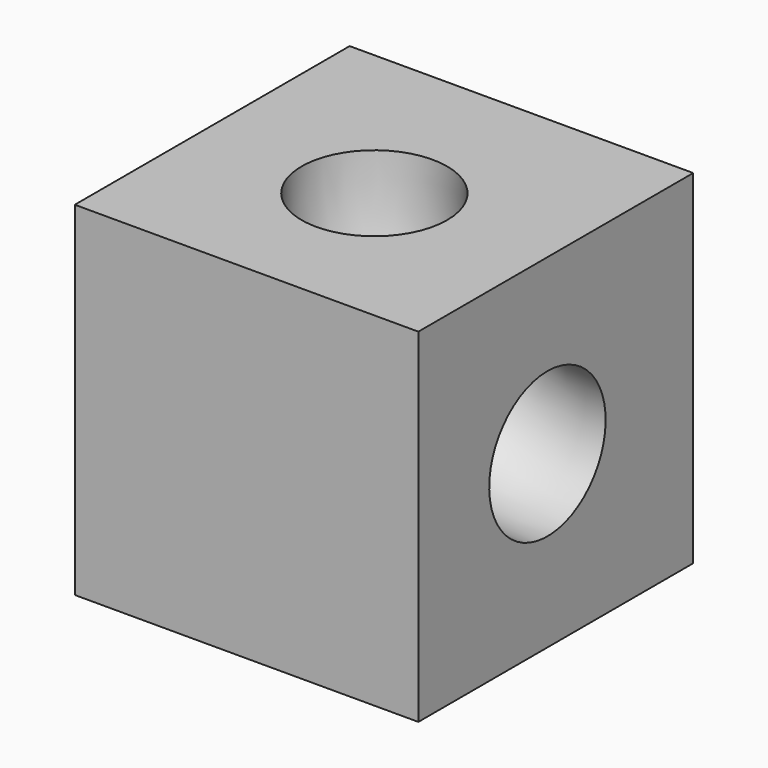
from build123d import *

# Parameters (mm, degrees)
F0_W     = 50.8
F0_H     = 50.8
F1_DEPTH = 50.8
F2_R     = 10.759246


with BuildPart() as f1:
    # F0 (on Top) → F1 (new body)
    with BuildSketch(Plane.XY):
        with Locations((25.4, 25.4)):
            Rectangle(F0_W, F0_H)
    extrude(amount=F1_DEPTH)

    # F2 (on face) → F3 (revolve, cut)
    with BuildSketch(Plane.XY.offset(50.8)):
        with Locations((25.214618, 23.852944)):
            Circle(F2_R)
    revolve(axis=Axis((50.8, 25.4, 50.8), (0, 1, 0)), mode=Mode.SUBTRACT)


solid = f1.part
